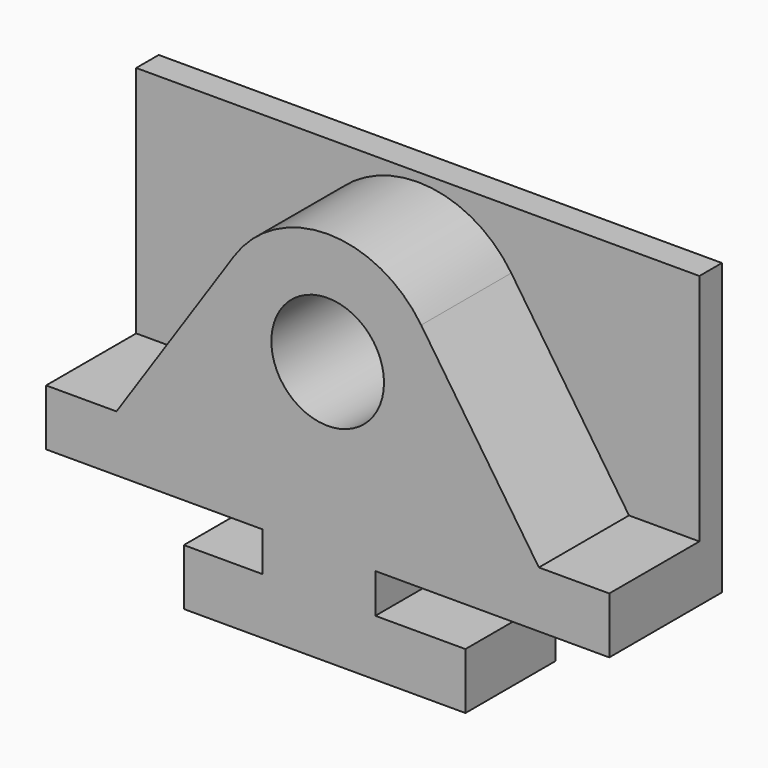
from build123d import *

# Parameters (mm, degrees)
F0_R     = 12.7
F1_DEPTH = 25.4
F2_W     = 127
F2_H     = 65.396301
F3_DEPTH = 6.35


with BuildPart() as f1:
    # F0 (on Front) → F1 (new body)
    with BuildSketch(Plane.XZ):
        with BuildLine():
            Line((0, 12.7), (0, 0))
            Line((0, 0), (48.846489, 0))
            Line((48.846489, 0), (48.846489, -8.89))
            Line((48.846489, -8.89), (31.063007, -8.89))
            Line((31.063007, -8.89), (31.063007, -21.59))
            Line((31.063007, -21.59), (94.563007, -21.59))
            Line((94.563007, -21.59), (94.563007, -8.89))
            Line((94.563007, -8.89), (74.246489, -8.89))
            Line((74.246489, -8.89), (74.246489, 0))
            Line((74.246489, 0), (127, 0))
            Line((127, 0), (127, 12.7))
            Line((127, 12.7), (111.125, 12.7))
            Line((111.125, 12.7), (84.579455, 52.186735))
            ThreePointArc((84.579455, 52.186735), (63.5, 63.415758), (42.420545, 52.186735))
            Line((42.420545, 52.186735), (15.875, 12.7))
            Line((15.875, 12.7), (0, 12.7))
        make_face()
        with Locations((63.5, 38.015758)):
            Circle(F0_R, mode=Mode.SUBTRACT)
    extrude(amount=F1_DEPTH)

    # F2 (on face) → F3 (join)
    with BuildSketch(Plane(origin=(0, 0, 0), x_dir=(-1, 0, 0), z_dir=(0, 1, 0))):
        with Locations((-63.5, 32.69815)):
            Rectangle(F2_W, F2_H)
    extrude(amount=F3_DEPTH)


solid = f1.part
